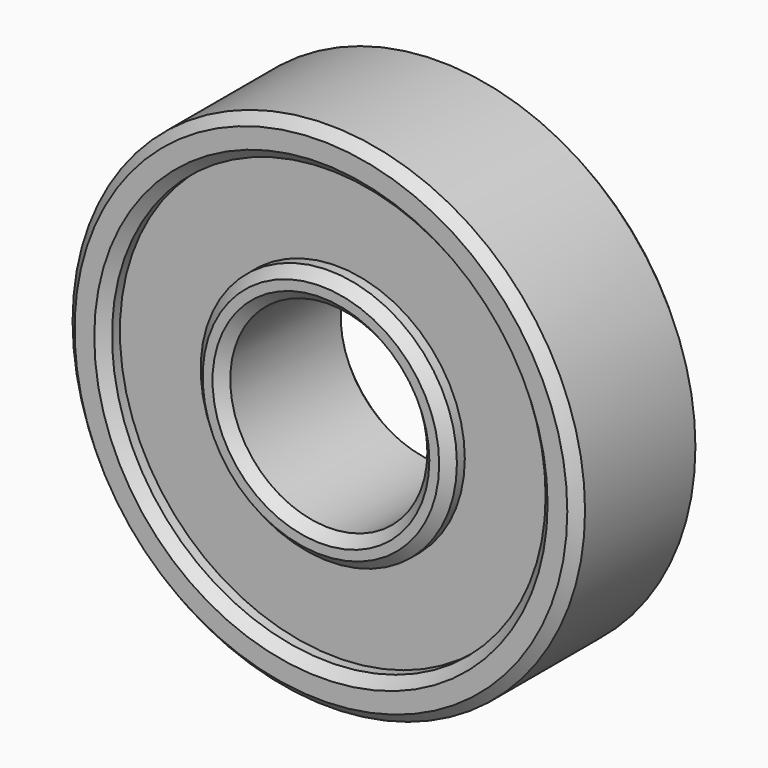
from build123d import *

# Parameters (mm, degrees)
F0_R     = 13
F0_R_2   = 5
F1_DEPTH = 4
F2_R     = 11
F2_R_2   = 6.5
F4_DEPTH = 1
F3_R     = 11
F3_R_2   = 6.5
F5_DEPTH = 1
F6_SIZE  = 0.5


with BuildPart() as f1:
    # F0 (on Front) → F1 (new body, symmetric)
    with BuildSketch(Plane.XZ):
        Circle(F0_R)
        Circle(F0_R_2, mode=Mode.SUBTRACT)
    extrude(amount=F1_DEPTH, both=True)

    # F2 (on face) → F4 (cut)
    with BuildSketch(Plane(origin=(0, 4, 0), x_dir=(-1, 0, 0), z_dir=(0, 1, 0))):
        Circle(F2_R)
        Circle(F2_R_2, mode=Mode.SUBTRACT)
    extrude(amount=-F4_DEPTH, mode=Mode.SUBTRACT)

    # F3 (on face) → F5 (cut)
    with BuildSketch(Plane.XZ.offset(4)):
        Circle(F3_R)
        Circle(F3_R_2, mode=Mode.SUBTRACT)
    extrude(amount=-F5_DEPTH, mode=Mode.SUBTRACT)

    # F6
    f6_edges = [f1.edges().sort_by_distance(p)[0] for p in [
        (-13, 4, 0),
        (-13, -4, 0),
        (-5, -4, 0),
        (-5, 4, 0),
        (6.5, 4, 0),
        (11, 4, 0),
        (-11, -4, 0),
        (-6.5, -4, 0),
    ]]
    chamfer(f6_edges, length=F6_SIZE)


solid = f1.part
